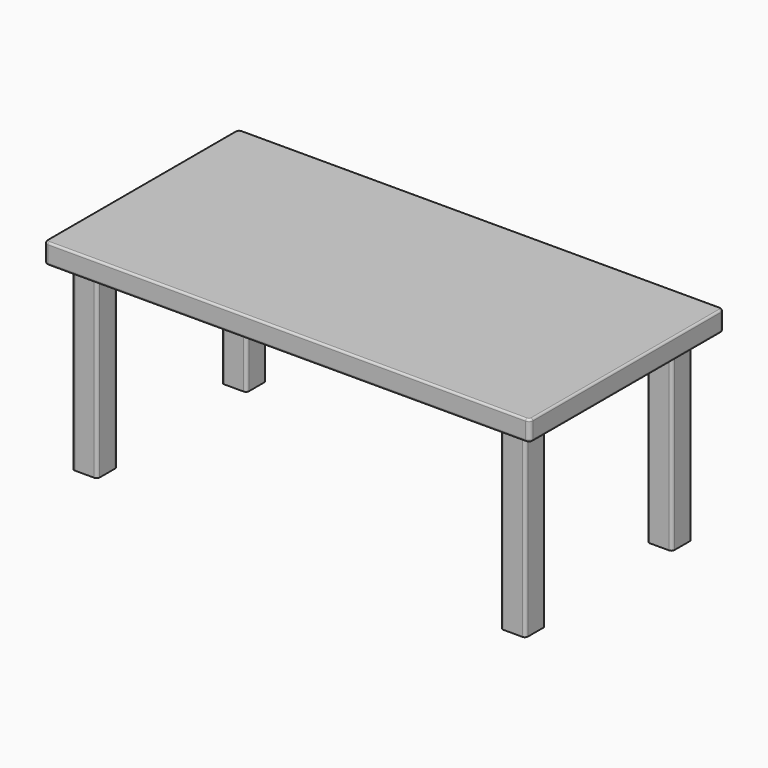
from build123d import *

# Parameters (mm, degrees)
F0_W      = 1219.2
F0_H      = 50.8
F1_DEPTH  = 609.6
F3_R      = 10.16
F4_R      = 10.16
F5_R      = 10.16
F6_R      = 10.16
F7_R      = 5.08
F8_W      = 63.5
F8_H      = 63.5
F9_DEPTH  = 457.2
F10_R     = 7.62
F11_W     = 63.5
F11_H     = 63.5
F12_DEPTH = 457.2
F13_R     = 7.62
F14_W     = 63.5
F14_H     = 63.5
F15_DEPTH = 457.2
F16_R     = 7.62
F17_W     = 63.5
F17_H     = 63.5
F18_DEPTH = 457.2
F19_R     = 7.62


with BuildPart() as f1:
    # F0 (on Front) → F1 (new body)
    with BuildSketch(Plane.XZ):
        Rectangle(F0_W, F0_H)
    extrude(amount=F1_DEPTH)

    # F3
    f3_edges = [f1.edges().sort_by_distance(p)[0] for p in [
        (-609.6, -609.6, 0),
    ]]
    fillet(f3_edges, radius=F3_R)

    # F4
    f4_edges = [f1.edges().sort_by_distance(p)[0] for p in [
        (-609.6, 0, 0),
    ]]
    fillet(f4_edges, radius=F4_R)

    # F5
    f5_edges = [f1.edges().sort_by_distance(p)[0] for p in [
        (609.6, 0, 0),
    ]]
    fillet(f5_edges, radius=F5_R)

    # F6
    f6_edges = [f1.edges().sort_by_distance(p)[0] for p in [
        (609.6, -609.6, 0),
    ]]
    fillet(f6_edges, radius=F6_R)

    # F7
    f7_edges = [f1.edges().sort_by_distance(p)[0] for p in [
        (-609.6, -304.8, 25.4),
        (-609.6, -304.8, -25.4),
    ]]
    fillet(f7_edges, radius=F7_R)

    # F8 (on face) → F9 (join)
    with BuildSketch(Plane(origin=(0, 0, -25.4), x_dir=(1, 0, 0), z_dir=(0, 0, -1))):
        with Locations((-538.884262, 70.392589)):
            Rectangle(F8_W, F8_H)
    extrude(amount=F9_DEPTH)

    # F10
    f10_edges = [f1.edges().sort_by_distance(p)[0] for p in [
        (-507.134262, -38.642589, -254),
        (-507.134262, -102.142589, -254),
        (-570.634262, -102.142589, -254),
        (-570.634262, -38.642589, -254),
    ]]
    fillet(f10_edges, radius=F10_R)

    # F11 (on face) → F12 (join)
    with BuildSketch(Plane(origin=(0, 0, -25.4), x_dir=(1, 0, 0), z_dir=(0, 0, -1))):
        with Locations((533.460811, 75.974436)):
            Rectangle(F11_W, F11_H)
    extrude(amount=F12_DEPTH)

    # F13
    f13_edges = [f1.edges().sort_by_distance(p)[0] for p in [
        (565.210811, -107.724436, -254),
        (565.210811, -44.224436, -254),
        (501.710811, -107.724436, -254),
        (501.710811, -44.224436, -254),
    ]]
    fillet(f13_edges, radius=F13_R)

    # F14 (on face) → F15 (join)
    with BuildSketch(Plane(origin=(0, 0, -25.4), x_dir=(1, 0, 0), z_dir=(0, 0, -1))):
        with Locations((-538.621542, 539.01282)):
            Rectangle(F14_W, F14_H)
    extrude(amount=F15_DEPTH)

    # F16
    f16_edges = [f1.edges().sort_by_distance(p)[0] for p in [
        (-570.371542, -570.76282, -254),
        (-506.871542, -570.76282, -254),
        (-506.871542, -507.26282, -254),
        (-570.371542, -507.26282, -254),
    ]]
    fillet(f16_edges, radius=F16_R)

    # F17 (on face) → F18 (join)
    with BuildSketch(Plane(origin=(0, 0, -25.4), x_dir=(1, 0, 0), z_dir=(0, 0, -1))):
        with Locations((538.63135, 542.144825)):
            Rectangle(F17_W, F17_H)
    extrude(amount=F18_DEPTH)

    # F19
    f19_edges = [f1.edges().sort_by_distance(p)[0] for p in [
        (570.38135, -573.894825, -254),
        (506.88135, -573.894825, -254),
        (506.88135, -510.394825, -254),
        (570.38135, -510.394825, -254),
    ]]
    fillet(f19_edges, radius=F19_R)


solid = f1.part
